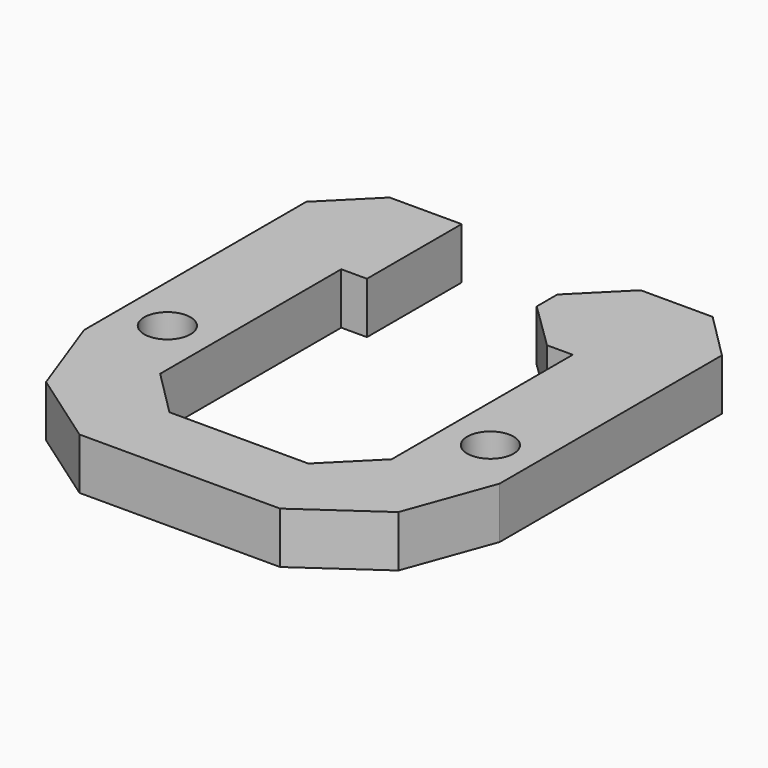
from build123d import *

# Parameters (mm, degrees)
F1_DEPTH = 254
F2_R     = 114.3
F3_DEPTH = 508


with BuildPart() as f1:
    # F0 (on Top) → F1 (new body)
    with BuildSketch(Plane.XY):
        Polygon((0, -584.2), (0, 0), (-355.6, 0), (-584.2, -228.6), (-584.2, -1371.6), (-584.2, -1600.225919), (-427.82839, -2029.853385), (-53.312076, -2292.092532), (276.887924, -2292.092532), (276.887924, -1930.4), (101.6, -1930.4), (-127, -1701.8), (-127, -584.2), align=None)
        Polygon((444.5, -1930.4), (276.887924, -1930.4), (276.887924, -2292.092532), (607.087924, -2292.092532), (607.087924, -1930.4), align=None)
        Polygon((787.4, -1930.4), (607.087924, -1930.4), (607.087924, -2292.092532), (937.287924, -2292.092532), (1311.804239, -2029.853385), (1468.175848, -1600.225919), (1468.175848, -228.625919), (1239.575848, 0), (883.975848, 0), (655.375848, -228.625919), (655.375848, -355.625919), (889, -584.2), (1016, -584.2), (1016, -1701.8), align=None)
    extrude(amount=F1_DEPTH)

    # F2 (on face) → F3 (cut)
    with BuildSketch(Plane.XY.offset(254)):
        with Locations((-355.6, -1371.6)):
            Circle(F2_R)
        with Locations((1239.575848, -1371.6)):
            Circle(F2_R)
    extrude(amount=-F3_DEPTH, mode=Mode.SUBTRACT)


solid = f1.part
